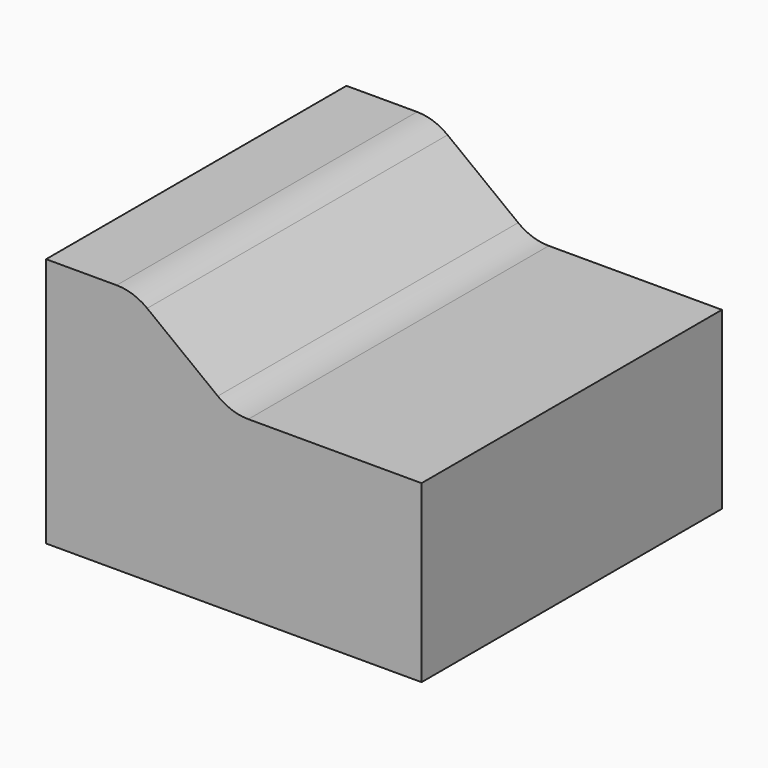
from build123d import *

# Parameters (mm, degrees)
F1_DEPTH = 150


with BuildPart() as f1:
    # F0 (on Front) → F1 (new body)
    with BuildSketch(Plane.XZ):
        with BuildLine():
            Line((28.197561, 0), (0, 0))
            Line((0, 0), (0, -100))
            Line((0, -100), (150, -100))
            Line((150, -100), (150, -30))
            Line((150, -30), (80.802439, -30))
            ThreePointArc((80.802439, -30), (74.362315, -28.934751), (68.608224, -25.85248))
            Line((68.608224, -25.85248), (40.391776, -4.14752))
            ThreePointArc((40.391776, -4.14752), (34.637685, -1.065249), (28.197561, 0))
        make_face()
    extrude(amount=F1_DEPTH)


solid = f1.part
